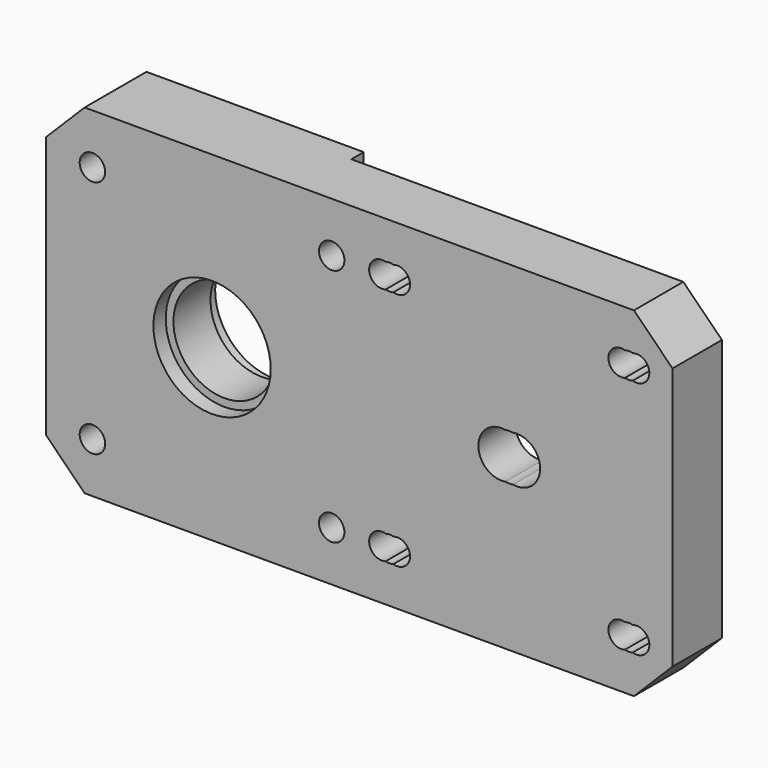
from build123d import *

# Parameters (mm, degrees)
F0_W      = 81.15
F0_H      = 44
F0_R      = 1.65
F0_R_2    = 3
F1_DEPTH  = 8
F2_R      = 17.5
F3_DEPTH  = 2
F4_W      = 33.15
F4_H      = 44
F4_R      = 1.65
F4_R_2    = 7.6
F5_DEPTH  = 2
F6_R      = 6.5
F7_DEPTH  = 3
F8_R      = 7.6
F9_DEPTH  = 2
F10_R     = 6.6
F11_DEPTH = 10
F13_DEPTH = 2
F14_SIZE  = 5


with BuildPart() as f1:
    # F0 (on Front) → F1 (new body)
    with BuildSketch(Plane.XZ):
        with Locations((-172.492545, -67.164728)):
            Rectangle(F0_W, F0_H)
        with Locations((-207.067545, -82.664728)):
            Circle(F0_R, mode=Mode.SUBTRACT)
        with Locations((-176.067545, -82.664728)):
            Circle(F0_R, mode=Mode.SUBTRACT)
        with Locations((-191.567545, -67.164728)):
            Circle(F0_R_2, mode=Mode.SUBTRACT)
        with BuildLine():
            ThreePointArc((-168.067545, -84.237147), (-168.567545, -84.314728), (-169.067545, -84.237147))
            ThreePointArc((-169.067545, -84.237147), (-171.217545, -82.664728), (-169.067545, -81.09231))
            ThreePointArc((-169.067545, -81.09231), (-168.567545, -81.014728), (-168.067545, -81.09231))
            ThreePointArc((-168.067545, -81.09231), (-165.917545, -82.664728), (-168.067545, -84.237147))
        make_face(mode=Mode.SUBTRACT)
        with BuildLine():
            ThreePointArc((-137.067545, -84.237147), (-137.567545, -84.314728), (-138.067545, -84.237147))
            ThreePointArc((-138.067545, -84.237147), (-140.217545, -82.664728), (-138.067545, -81.09231))
            ThreePointArc((-138.067545, -81.09231), (-137.567545, -81.014728), (-137.067545, -81.09231))
            ThreePointArc((-137.067545, -81.09231), (-134.917545, -82.664728), (-137.067545, -84.237147))
        make_face(mode=Mode.SUBTRACT)
        with BuildLine():
            ThreePointArc((-152.567545, -70.122768), (-153.067545, -70.164728), (-153.567545, -70.122768))
            ThreePointArc((-153.567545, -70.122768), (-157.067545, -67.164728), (-153.567545, -64.206688))
            ThreePointArc((-153.567545, -64.206688), (-153.067545, -64.164728), (-152.567545, -64.206688))
            ThreePointArc((-152.567545, -64.206688), (-149.067545, -67.164728), (-152.567545, -70.122768))
        make_face(mode=Mode.SUBTRACT)
        with Locations((-207.067545, -51.664728)):
            Circle(F0_R, mode=Mode.SUBTRACT)
        with Locations((-176.067545, -51.664728)):
            Circle(F0_R, mode=Mode.SUBTRACT)
        with BuildLine():
            ThreePointArc((-168.067545, -53.237147), (-168.567545, -53.314728), (-169.067545, -53.237147))
            ThreePointArc((-169.067545, -53.237147), (-171.217545, -51.664728), (-169.067545, -50.09231))
            ThreePointArc((-169.067545, -50.09231), (-168.567545, -50.014728), (-168.067545, -50.09231))
            ThreePointArc((-168.067545, -50.09231), (-165.917545, -51.664728), (-168.067545, -53.237147))
        make_face(mode=Mode.SUBTRACT)
        with BuildLine():
            ThreePointArc((-137.067545, -53.237147), (-137.567545, -53.314728), (-138.067545, -53.237147))
            ThreePointArc((-138.067545, -53.237147), (-140.217545, -51.664728), (-138.067545, -50.09231))
            ThreePointArc((-138.067545, -50.09231), (-137.567545, -50.014728), (-137.067545, -50.09231))
            ThreePointArc((-137.067545, -50.09231), (-134.917545, -51.664728), (-137.067545, -53.237147))
        make_face(mode=Mode.SUBTRACT)
    extrude(amount=F1_DEPTH)

    # F2 (on face) → F3 (cut)
    with BuildSketch(Plane(origin=(0, 0, 0), x_dir=(-1, 0, 0), z_dir=(0, 1, 0))):
        with Locations((153.067545, -67.164728)):
            Circle(F2_R)
    extrude(amount=-F3_DEPTH, mode=Mode.SUBTRACT)

    # F4 (on face) → F5 (join)
    with BuildSketch(Plane(origin=(0, 0, 0), x_dir=(-1, 0, 0), z_dir=(0, 1, 0))):
        with Locations((196.492545, -67.164728)):
            Rectangle(F4_W, F4_H)
        with Locations((207.067545, -82.664728)):
            Circle(F4_R, mode=Mode.SUBTRACT)
        with Locations((191.567545, -67.164728)):
            Circle(F4_R_2, mode=Mode.SUBTRACT)
        with Locations((207.067545, -51.664728)):
            Circle(F4_R, mode=Mode.SUBTRACT)
    extrude(amount=F5_DEPTH)

    # F6 (on face) → F7 (cut)
    with BuildSketch(Plane(origin=(0, 2, 0), x_dir=(-1, 0, 0), z_dir=(0, 1, 0))):
        with Locations((191.567545, -67.164728)):
            Circle(F6_R)
    extrude(amount=-F7_DEPTH, mode=Mode.SUBTRACT)

    # F8 (on face) → F9 (cut)
    with BuildSketch(Plane.XZ.offset(8)):
        with Locations((-191.567545, -67.164728)):
            Circle(F8_R)
    extrude(amount=-F9_DEPTH, mode=Mode.SUBTRACT)

    # F10 (on face) → F11 (cut)
    with BuildSketch(Plane.XZ.offset(8)):
        with Locations((-191.567545, -67.164728)):
            Circle(F10_R)
    extrude(amount=-F11_DEPTH, mode=Mode.SUBTRACT)

    # F12 (on face) → F13 (join)
    with BuildSketch(Plane(origin=(0, 0, 0), x_dir=(-1, 0, 0), z_dir=(0, 1, 0))):
        with BuildLine():
            ThreePointArc((176.067545, -81.064728), (177.667545, -82.664728), (176.067545, -84.264728))
            Line((176.067545, -84.264728), (176.067545, -85.664728))
            Line((176.067545, -85.664728), (179.917545, -85.664728))
            Line((179.917545, -85.664728), (179.917545, -79.664728))
            Line((179.917545, -79.664728), (176.067545, -79.664728))
            Line((176.067545, -79.664728), (176.067545, -81.064728))
        make_face()
        with BuildLine():
            Line((176.067545, -53.264728), (176.067545, -54.664728))
            Line((176.067545, -54.664728), (179.917545, -54.664728))
            Line((179.917545, -54.664728), (179.917545, -48.664728))
            Line((179.917545, -48.664728), (176.067545, -48.664728))
            Line((176.067545, -48.664728), (176.067545, -50.064728))
            ThreePointArc((176.067545, -50.064728), (177.667545, -51.664728), (176.067545, -53.264728))
        make_face()
    extrude(amount=F13_DEPTH)

    # F14
    f14_edges = [f1.edges().sort_by_distance(p)[0] for p in [
        (-213.067545, -3, -89.164728),
        (-213.067545, -3, -45.164728),
        (-131.917545, -4, -89.164728),
        (-131.917545, -4, -45.164728),
    ]]
    chamfer(f14_edges, length=F14_SIZE)


solid = f1.part
